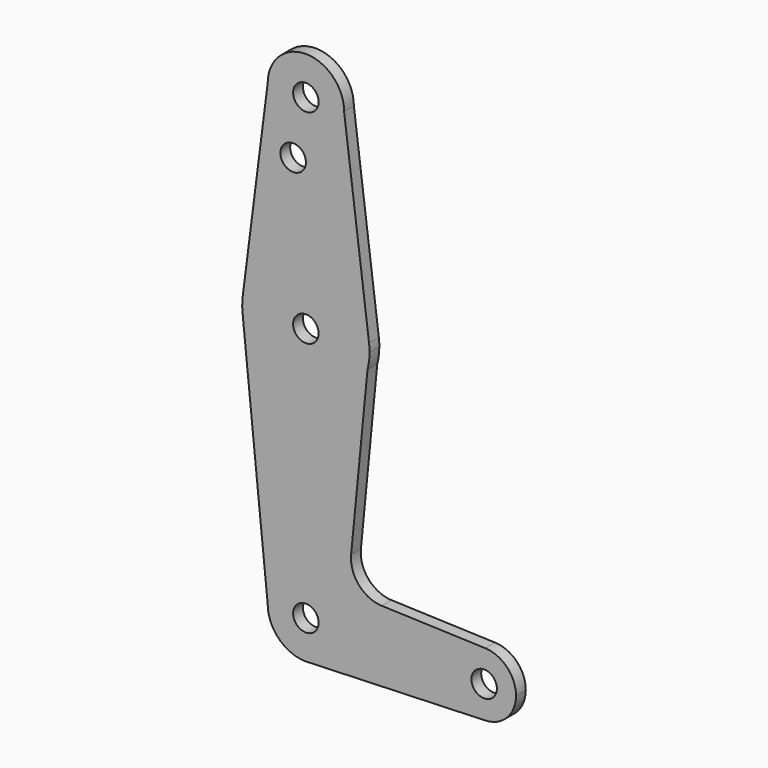
from build123d import *

# Parameters (mm, degrees)
F0_R     = 3.175
F1_DEPTH = 3.048


with BuildPart() as f1:
    # F0 (on Front) → F1 (new body)
    with BuildSketch(Plane.XZ):
        with BuildLine():
            ThreePointArc((-9.525, 114.3), (0, 104.775), (9.525, 114.3))
            ThreePointArc((9.525, 114.3), (0, 123.825), (-9.525, 114.3))
        make_face()
        with Locations((0, 114.3)):
            Circle(F0_R, mode=Mode.SUBTRACT)
        with BuildLine():
            Line((15.747457, 65.508289), (9.525, 114.3))
            ThreePointArc((9.525, 114.3), (0, 104.775), (-9.525, 114.3))
            Line((-9.525, 114.3), (-15.747457, 65.508289))
            ThreePointArc((-15.747457, 65.508289), (0, 79.375), (15.747457, 65.508289))
        make_face()
        with Locations((-3.175, 100.0252)):
            Circle(F0_R, mode=Mode.SUBTRACT)
        with BuildLine():
            ThreePointArc((15.875, 63.5), (15.843082, 64.506168), (15.747457, 65.508289))
            ThreePointArc((15.747457, 65.508289), (0, 79.375), (-15.747457, 65.508289))
            ThreePointArc((-15.747457, 65.508289), (-15.873668, 63.705667), (-15.794203, 61.90038))
            ThreePointArc((-15.794203, 61.90038), (-1.23348, 47.672993), (15.355669, 59.472711))
            ThreePointArc((15.355669, 59.472711), (15.744632, 61.469682), (15.875, 63.5))
        make_face()
        with Locations((0, 63.5)):
            Circle(F0_R, mode=Mode.SUBTRACT)
        with BuildLine():
            ThreePointArc((15.355669, 59.472711), (-1.23348, 47.672993), (-15.794203, 61.90038))
            Line((-15.794203, 61.90038), (-9.525, 0))
            ThreePointArc((-9.525, 0), (0, 9.525), (9.525, 0))
            ThreePointArc((9.525, 0), (6.970557, -6.491299), (0.677344, -9.500886))
            Line((0.677344, -9.500886), (44.732405, -7.932475))
            ThreePointArc((44.732405, -7.932475), (36.5125, 0), (44.732405, 7.932475))
            Line((44.732405, 7.932475), (18.908908, 8.851821))
            ThreePointArc((18.908908, 8.851821), (13.210127, 11.560033), (11.278921, 17.566775))
            Line((11.278921, 17.566775), (15.355669, 59.472711))
        make_face()
        with BuildLine():
            ThreePointArc((9.525, 0), (0, 9.525), (-9.525, 0))
            ThreePointArc((-9.525, 0), (-6.735192, -6.735192), (0, -9.525))
            Line((0, -9.525), (0.677344, -9.500886))
            ThreePointArc((0.677344, -9.500886), (6.970557, -6.491299), (9.525, 0))
        make_face()
        Circle(F0_R, mode=Mode.SUBTRACT)
        with BuildLine():
            Line((0.677344, -9.500886), (0, -9.525))
            ThreePointArc((0, -9.525), (0.338886, -9.51897), (0.677344, -9.500886))
        make_face()
        with BuildLine():
            ThreePointArc((52.3875, 0), (50.161633, 5.51191), (44.732405, 7.932475))
            ThreePointArc((44.732405, 7.932475), (36.5125, 0), (44.732405, -7.932475))
            ThreePointArc((44.732405, -7.932475), (50.161633, -5.51191), (52.3875, 0))
        make_face()
        with Locations((44.45, 0)):
            Circle(F0_R, mode=Mode.SUBTRACT)
    extrude(amount=F1_DEPTH)


solid = f1.part
